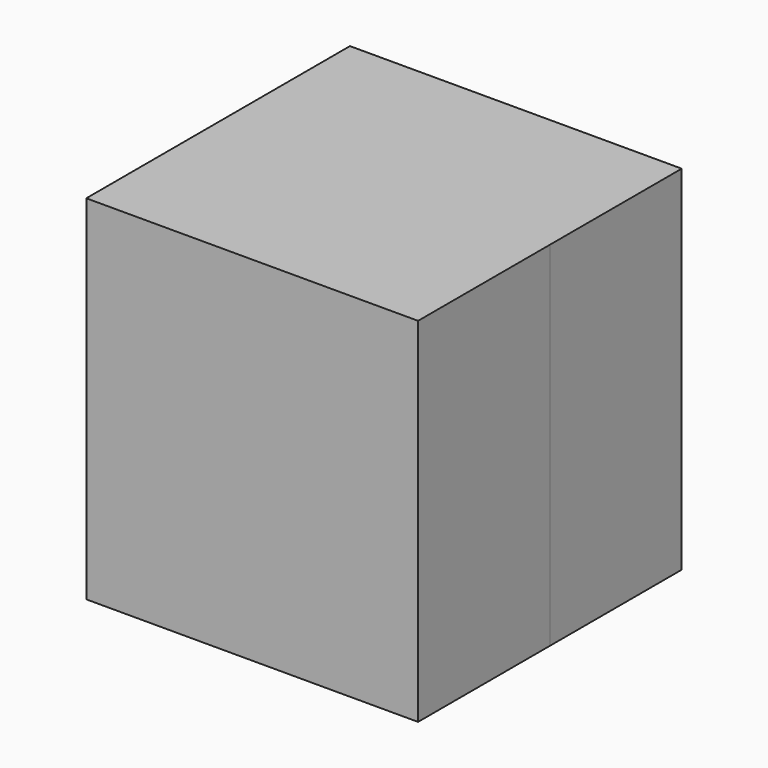
from build123d import *

# Parameters (mm, degrees)
F0_W      = 51.142089
F0_H      = 54.42879
F0_R      = 12.892962
F1_DEPTH  = 25.4
F1_FACE_W = 51.14209
F1_FACE_H = 54.42879
F2_DEPTH  = 25.4


with BuildPart() as f1:
    # F0 (on Front) → F1 (new body)
    with BuildSketch(Plane.XZ):
        with Locations((7.091131, -6.763158)):
            Rectangle(F0_W, F0_H)
        with Locations((5.157186, -4.527965)):
            Circle(F0_R, mode=Mode.SUBTRACT)
        with Locations((5.157186, -4.527965)):
            Circle(F0_R)
    extrude(amount=F1_DEPTH)

    # F1_face (on face) → F2 (join)
    with BuildSketch(Plane(origin=(7.091131, 0, -6.763158), x_dir=(1, 0, 0), z_dir=(0, 1, 0))):
        Rectangle(F1_FACE_W, F1_FACE_H)
    extrude(amount=F2_DEPTH)


solid = f1.part
